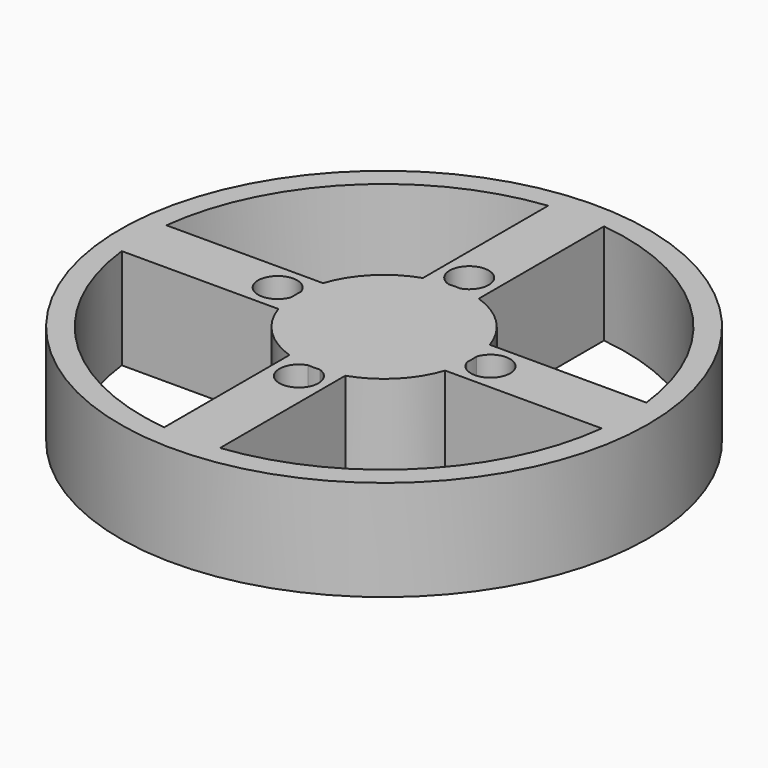
from build123d import *

# Parameters (mm, degrees)
F0_R     = 47.25
F1_DEPTH = 18
F2_R     = 15.75
F3_DEPTH = 5


with BuildPart() as f1:
    # F0 (on Top) → F1 (new body)
    with BuildSketch(Plane.XY):
        Circle(F0_R)
        with BuildLine():
            ThreePointArc((5, 42.9600104749), (30.5823682863, 30.5823682863), (42.9600104749, 5))
            ThreePointArc((42.9600104749, 5), (43.1774417551, 2.5042011663), (43.25, 0))
            ThreePointArc((43.25, 0), (43.1774417551, -2.5042011663), (42.9600104749, -5))
            ThreePointArc((42.9600104749, -5), (30.5823682863, -30.5823682863), (5, -42.9600104749))
            ThreePointArc((5, -42.9600104749), (0, -43.25), (-5, -42.9600104749))
            ThreePointArc((-5, -42.9600104749), (-30.5823682863, -30.5823682863), (-42.9600104749, -5))
            ThreePointArc((-42.9600104749, -5), (-43.25, 0), (-42.9600104749, 5))
            ThreePointArc((-42.9600104749, 5), (-30.5823682863, 30.5823682863), (-5, 42.9600104749))
            ThreePointArc((-5, 42.9600104749), (0, 43.25), (5, 42.9600104749))
        make_face(mode=Mode.SUBTRACT)
        with BuildLine():
            Line((42.9600104749, 5), (14.9352770312, 5))
            ThreePointArc((14.9352770312, 5), (15.4509075243, 3.0548251464), (15.7143044619, 1.0597807685))
            ThreePointArc((15.7143044619, 1.0597807685), (19.5862208579, 3.4586799782), (22.55, 0))
            ThreePointArc((22.55, 0), (19.5862208579, -3.4586799782), (15.7143044619, -1.0597807685))
            ThreePointArc((15.7143044619, -1.0597807685), (15.4509075243, -3.0548251464), (14.9352770312, -5))
            Line((14.9352770312, -5), (42.9600104749, -5))
            ThreePointArc((42.9600104749, -5), (43.1774417551, -2.5042011663), (43.25, 0))
            ThreePointArc((43.25, 0), (43.1774417551, 2.5042011663), (42.9600104749, 5))
        make_face()
        with BuildLine():
            ThreePointArc((-15.7143044619, 1.0597807685), (-15.4509075243, 3.0548251464), (-14.9352770312, 5))
            Line((-14.9352770312, 5), (-42.9600104749, 5))
            ThreePointArc((-42.9600104749, 5), (-43.25, 0), (-42.9600104749, -5))
            Line((-42.9600104749, -5), (-14.9352770312, -5))
            ThreePointArc((-14.9352770312, -5), (-15.4509075243, -3.0548251464), (-15.7143044619, -1.0597807685))
            ThreePointArc((-15.7143044619, -1.0597807685), (-22.55, 0), (-15.7143044619, 1.0597807685))
        make_face()
        with BuildLine():
            ThreePointArc((1.0597807685, 15.7143044619), (3.0548251464, 15.4509075243), (5, 14.9352770312))
            Line((5, 14.9352770312), (5, 42.9600104749))
            ThreePointArc((5, 42.9600104749), (0, 43.25), (-5, 42.9600104749))
            Line((-5, 42.9600104749), (-5, 14.9352770312))
            ThreePointArc((-5, 14.9352770312), (-3.0548251464, 15.4509075243), (-1.0597807685, 15.7143044619))
            ThreePointArc((-1.0597807685, 15.7143044619), (-2.0664906617, 21.8748214713), (3.5, 19.05))
            ThreePointArc((3.5, 19.05), (2.8248214713, 16.9835093383), (1.0597807685, 15.7143044619))
        make_face()
        with BuildLine():
            Line((5, -42.9600104749), (5, -14.9352770312))
            ThreePointArc((5, -14.9352770312), (3.0548251464, -15.4509075243), (1.0597807685, -15.7143044619))
            ThreePointArc((1.0597807685, -15.7143044619), (2.8248214713, -16.9835093383), (3.5, -19.05))
            ThreePointArc((3.5, -19.05), (-2.0664906617, -21.8748214713), (-1.0597807685, -15.7143044619))
            ThreePointArc((-1.0597807685, -15.7143044619), (-3.0548251464, -15.4509075243), (-5, -14.9352770312))
            Line((-5, -14.9352770312), (-5, -42.9600104749))
            ThreePointArc((-5, -42.9600104749), (0, -43.25), (5, -42.9600104749))
        make_face()
        with BuildLine():
            Line((-5, -14.9352770312), (-5, -11.7287041057))
            ThreePointArc((-5, -11.7287041057), (-9.0156114601, -9.0156114601), (-11.7287041057, -5))
            Line((-11.7287041057, -5), (-14.9352770312, -5))
            ThreePointArc((-14.9352770312, -5), (-11.1369318037, -11.1369318037), (-5, -14.9352770312))
        make_face()
        with BuildLine():
            Line((14.9352770312, -5), (11.7287041057, -5))
            ThreePointArc((11.7287041057, -5), (9.0156114601, -9.0156114601), (5, -11.7287041057))
            Line((5, -11.7287041057), (5, -14.9352770312))
            ThreePointArc((5, -14.9352770312), (11.1369318037, -11.1369318037), (14.9352770312, -5))
        make_face()
        with BuildLine():
            ThreePointArc((5, 11.7287041057), (9.0156114601, 9.0156114601), (11.7287041057, 5))
            Line((11.7287041057, 5), (14.9352770312, 5))
            ThreePointArc((14.9352770312, 5), (11.1369318037, 11.1369318037), (5, 14.9352770312))
            Line((5, 14.9352770312), (5, 11.7287041057))
        make_face()
        with BuildLine():
            ThreePointArc((-11.7287041057, 5), (-9.0156114601, 9.0156114601), (-5, 11.7287041057))
            Line((-5, 11.7287041057), (-5, 14.9352770312))
            ThreePointArc((-5, 14.9352770312), (-11.1369318037, 11.1369318037), (-14.9352770312, 5))
            Line((-14.9352770312, 5), (-11.7287041057, 5))
        make_face()
        with BuildLine():
            ThreePointArc((-5, 11.7287041057), (0, 12.75), (5, 11.7287041057))
            Line((5, 11.7287041057), (5, 14.9352770312))
            ThreePointArc((5, 14.9352770312), (3.0548251464, 15.4509075243), (1.0597807685, 15.7143044619))
            ThreePointArc((1.0597807685, 15.7143044619), (0, 15.55), (-1.0597807685, 15.7143044619))
            ThreePointArc((-1.0597807685, 15.7143044619), (-3.0548251464, 15.4509075243), (-5, 14.9352770312))
            Line((-5, 14.9352770312), (-5, 11.7287041057))
        make_face()
        with BuildLine():
            ThreePointArc((11.7287041057, 5), (12.4920670297, 2.5516193536), (12.75, 0))
            ThreePointArc((12.75, 0), (12.4920670297, -2.5516193536), (11.7287041057, -5))
            Line((11.7287041057, -5), (14.9352770312, -5))
            ThreePointArc((14.9352770312, -5), (15.4509075243, -3.0548251464), (15.7143044619, -1.0597807685))
            ThreePointArc((15.7143044619, -1.0597807685), (15.55, 0), (15.7143044619, 1.0597807685))
            ThreePointArc((15.7143044619, 1.0597807685), (15.4509075243, 3.0548251464), (14.9352770312, 5))
            Line((14.9352770312, 5), (11.7287041057, 5))
        make_face()
        with BuildLine():
            ThreePointArc((-11.7287041057, -5), (-12.75, 0), (-11.7287041057, 5))
            Line((-11.7287041057, 5), (-14.9352770312, 5))
            ThreePointArc((-14.9352770312, 5), (-15.4509075243, 3.0548251464), (-15.7143044619, 1.0597807685))
            ThreePointArc((-15.7143044619, 1.0597807685), (-15.5913200218, 0.5362208579), (-15.55, 0))
            ThreePointArc((-15.55, 0), (-15.5913200218, -0.5362208579), (-15.7143044619, -1.0597807685))
            ThreePointArc((-15.7143044619, -1.0597807685), (-15.4509075243, -3.0548251464), (-14.9352770312, -5))
            Line((-14.9352770312, -5), (-11.7287041057, -5))
        make_face()
        with BuildLine():
            Line((5, -14.9352770312), (5, -11.7287041057))
            ThreePointArc((5, -11.7287041057), (0, -12.75), (-5, -11.7287041057))
            Line((-5, -11.7287041057), (-5, -14.9352770312))
            ThreePointArc((-5, -14.9352770312), (-3.0548251464, -15.4509075243), (-1.0597807685, -15.7143044619))
            ThreePointArc((-1.0597807685, -15.7143044619), (0, -15.55), (1.0597807685, -15.7143044619))
            ThreePointArc((1.0597807685, -15.7143044619), (3.0548251464, -15.4509075243), (5, -14.9352770312))
        make_face()
    extrude(amount=F1_DEPTH)

    # F2 (on face) → F3 (join)
    with BuildSketch(Plane.XY.offset(18)):
        Circle(F2_R)
    extrude(amount=-F3_DEPTH)


solid = f1.part
